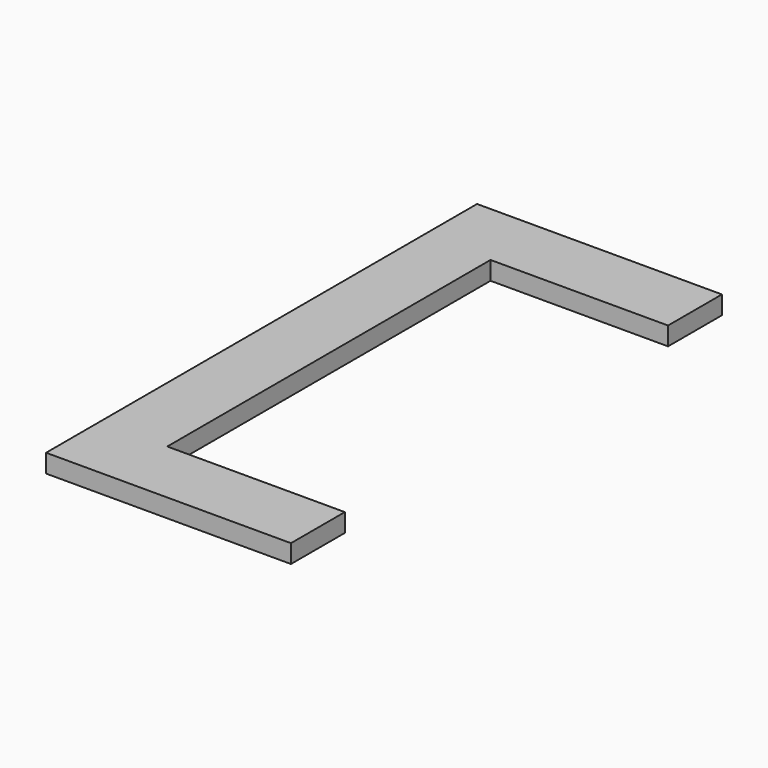
from build123d import *

# Parameters (mm, degrees)
F1_DEPTH = 19.05


with BuildPart() as f1:
    # F0 (on Top) → F1 (new body)
    with BuildSketch(Plane.XY):
        Polygon((-57.15, -209.55), (-127, -209.55), (-127, -279.4), (127, -279.4), (127, -209.55), align=None)
        Polygon((127, 279.4), (-127, 279.4), (-127, -209.55), (-57.15, -209.55), (-57.15, 209.55), (127, 209.55), align=None)
    extrude(amount=F1_DEPTH)


solid = f1.part
